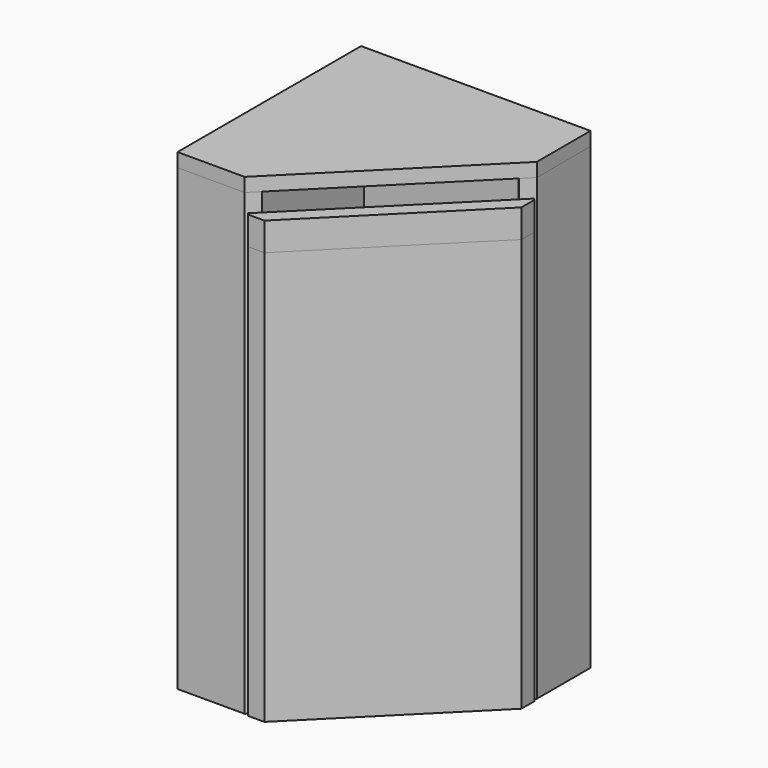
from build123d import *

# Parameters (mm, degrees)
F0_W     = 18
F0_H     = 264
F1_DEPTH = 600
F2_DEPTH = 600
F3_DEPTH = 600
F4_DEPTH = 540
F6_DEPTH = 18
F7_DEPTH = 37


with BuildPart() as f1:
    # F0 (on Top) → F1 (new body)
    with BuildSketch(Plane.XY):
        with Locations((9, -132)):
            Rectangle(F0_W, F0_H)
    extrude(amount=F1_DEPTH)


with BuildPart() as f2:
    # F0 (on Top) → F2 (new body)
    with BuildSketch(Plane.XY):
        Polygon((0, 18), (0, 0), (18, 0), (282, 0), (282, 18), align=None)
    extrude(amount=F2_DEPTH)


with BuildPart() as f3:
    # F0 (on Top) → F3 (new body)
    with BuildSketch(Plane.XY):
        Polygon((18, -264), (0, -264), (0, -282), (87.867966, -282), (100.595888, -269.272078), (95.32381, -264), align=None)
        Polygon((282, 18), (282, 0), (282, -77.32381), (287.272078, -82.595888), (300, -69.867966), (300, 18), align=None)
    extrude(amount=F3_DEPTH)


with BuildPart() as f4:
    # F0 (on Top) → F4 (new body)
    with BuildSketch(Plane.XY):
        Polygon((93.52482, -283.414214), (114.738023, -283.414214), (301.414214, -96.738023), (301.414214, -75.52482), (299.292893, -73.4035), (91.4035, -281.292893), align=None)
    extrude(amount=F4_DEPTH)


with BuildPart() as f6:
    # F5 (on face) → F6 (new body)
    with BuildSketch(Plane.XY.offset(600)):
        Polygon((0, 0), (0, -264), (0, -282), (87.867966, -282), (300, -69.867966), (300, 18), (282, 18), (0, 18), align=None)
    extrude(amount=F6_DEPTH)


with BuildPart() as f7:
    # F4_face (on face) → F7 (new body)
    with BuildSketch(Plane(origin=(201.586561, -183.586561, 540), x_dir=(1, 0, 0), z_dir=(0, 0, 1))):
        Polygon((-110.183062, -97.706332), (-108.061741, -99.827652), (-86.848538, -99.827652), (99.827652, 86.848538), (99.827652, 108.061741), (97.706332, 110.183062), align=None)
    extrude(amount=F7_DEPTH)


solid = Compound([f1.part, f2.part, f3.part, f4.part, f6.part, f7.part])
